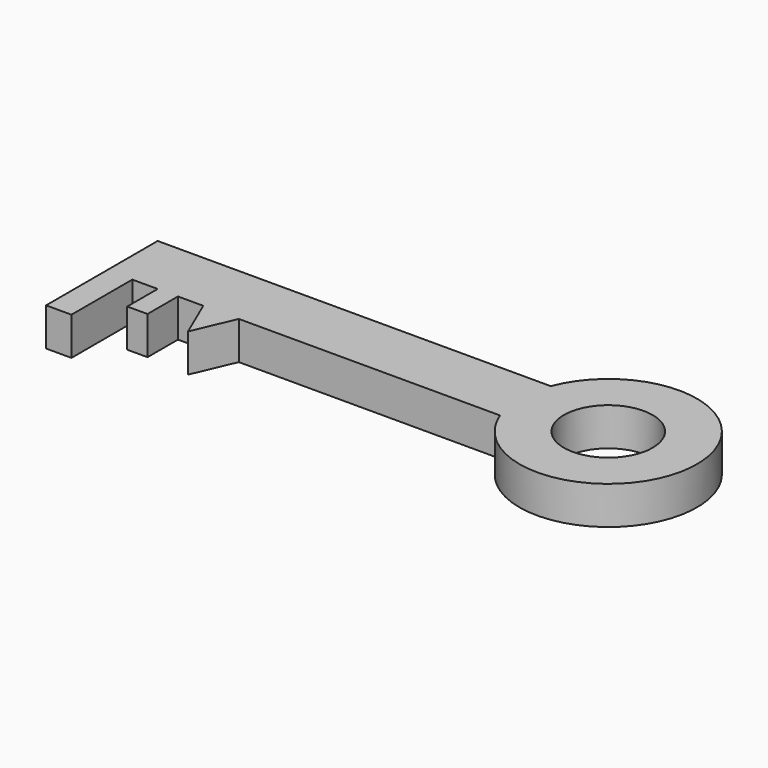
from build123d import *

# Parameters (mm, degrees)
F0_R     = 17.5
F0_W     = 10
F0_H     = 30
F0_W_2   = 8
F0_H_2   = 15
F1_DEPTH = 15


with BuildPart() as f1:
    # F0 (on Top) → F1 (new body)
    with BuildSketch(Plane.XY):
        Polygon((49.769913, 41.319751), (-105.230087, 41.319751), (-105.230087, 16.319751), (-95.230087, 16.319751), (-85.230087, 16.319751), (-77.230087, 16.319751), (-67.230087, 16.319751), (-53.230087, 16.319751), (49.769913, 16.319751), align=None)
        with BuildLine():
            ThreePointArc((49.769913, 16.319751), (117.461655, 28.819751), (49.769913, 41.319751))
            Line((49.769913, 41.319751), (49.769913, 16.319751))
        make_face()
        with Locations((82.461655, 28.819751)):
            Circle(F0_R, mode=Mode.SUBTRACT)
        with Locations((-100.230087, 1.319751)):
            Rectangle(F0_W, F0_H)
        Polygon((-60.230087, 0), (-53.230087, 16.319751), (-67.230087, 16.319751), align=None)
        with Locations((-81.230087, 8.819751)):
            Rectangle(F0_W_2, F0_H_2)
    extrude(amount=F1_DEPTH)


solid = f1.part
